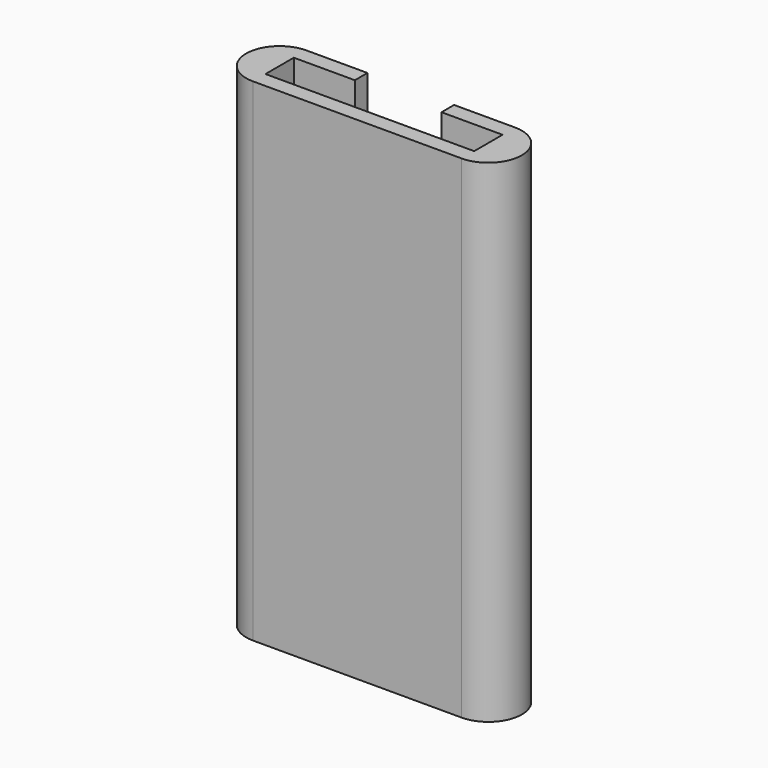
from build123d import *

# Parameters (mm, degrees)
F1_DEPTH = 25


with BuildPart() as f1:
    # F0 (on Top) → F1 (new body)
    with BuildSketch(Plane.XY):
        with BuildLine():
            Line((5.3, 0), (0, 0))
            Line((0, 0), (-5.3, 0))
            Line((-5.3, 0), (-5.3, 1.8))
            Line((-5.3, 1.8), (-2.2, 1.8))
            Line((-2.2, 1.8), (-2.2, 2.6))
            Line((-2.2, 2.6), (-5.3, 2.6))
            ThreePointArc((-5.3, 2.6), (-7, 0.9), (-5.3, -0.8))
            Line((-5.3, -0.8), (0, -0.8))
            Line((0, -0.8), (5.3, -0.8))
            ThreePointArc((5.3, -0.8), (7, 0.9), (5.3, 2.6))
            Line((5.3, 2.6), (2.2, 2.6))
            Line((2.2, 2.6), (2.2, 1.8))
            Line((2.2, 1.8), (5.3, 1.8))
            Line((5.3, 1.8), (5.3, 0))
        make_face()
    extrude(amount=F1_DEPTH)


solid = f1.part
